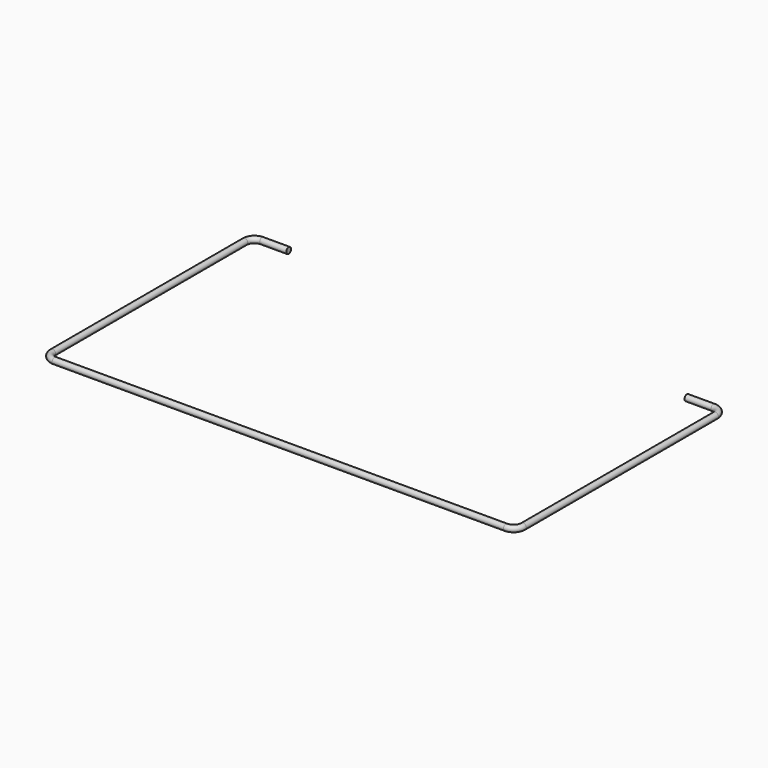
from build123d import *

# Parameters (mm, degrees)
F1_R = 2.5


with BuildPart() as f2:
    # F2: sweep along a path in F0
    with BuildLine(Plane.XY) as f2_path:
        Line((0, 0), (-22, 0))
        ThreePointArc((-22, 0), (-27.6568542495, -2.3431457505), (-30, -8))
        Line((-30, -8), (-30, -207))
        ThreePointArc((-30, -207), (-27.6568542495, -212.6568542495), (-22, -215))
        Line((-22, -215), (352, -215))
        ThreePointArc((352, -215), (357.6568542495, -212.6568542495), (360, -207))
        Line((360, -207), (360, -8))
        ThreePointArc((360, -8), (357.6568542495, -2.3431457505), (352, 0))
        Line((352, 0), (330, 0))
    # F1 (on Right) → F2 (sweep)
    with BuildSketch(Plane.YZ):
        Circle(F1_R)
    sweep(path=f2_path.line)


solid = f2.part
